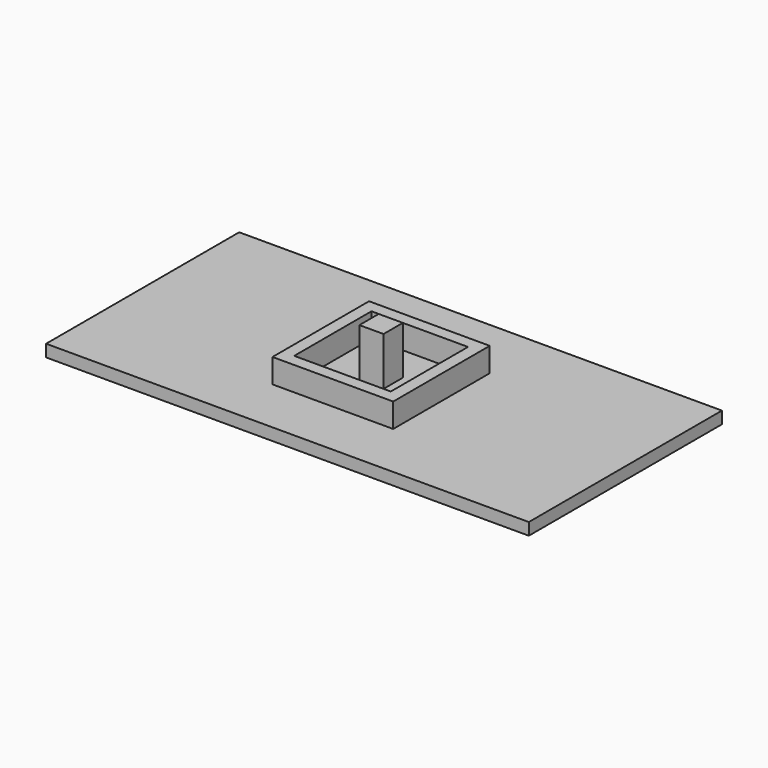
from build123d import *

# Parameters (mm, degrees)
F0_W     = 200
F0_H     = 100
F1_DEPTH = 5
F2_W     = 50
F2_H     = 50
F3_DEPTH = 10
F4_W     = 40
F4_H     = 40
F5_DEPTH = 10
F6_W     = 10
F6_H     = 10
F7_DEPTH = 20


with BuildPart() as f1:
    # F0 (on Top) → F1 (new body)
    with BuildSketch(Plane.XY):
        with Locations((0, 1.493815)):
            Rectangle(F0_W, F0_H)
    extrude(amount=F1_DEPTH)

    # F2 (on face) → F3 (join)
    with BuildSketch(Plane.XY.offset(5)):
        Rectangle(F2_W, F2_H)
    extrude(amount=F3_DEPTH)

    # F4 (on face) → F5 (cut)
    with BuildSketch(Plane.XY.offset(15)):
        Rectangle(F4_W, F4_H)
    extrude(amount=-F5_DEPTH, mode=Mode.SUBTRACT)

    # F6 (on face) → F7 (join)
    with BuildSketch(Plane.XY.offset(5)):
        Rectangle(F6_W, F6_H)
    extrude(amount=F7_DEPTH)


solid = f1.part
